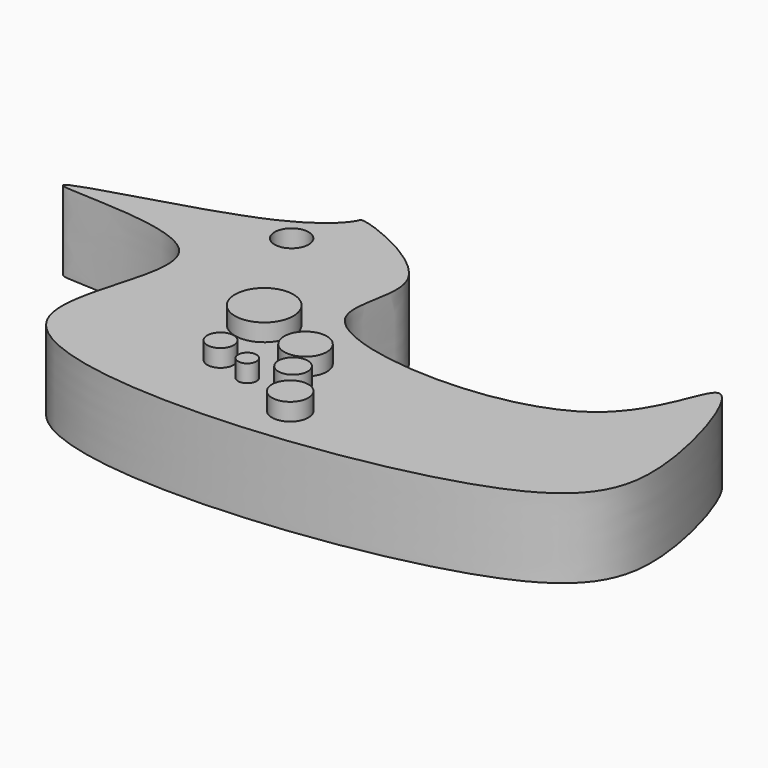
from build123d import *

# Parameters (mm, degrees)
F1_DEPTH = 12.7
F2_R     = 2.7244838704
F3_DEPTH = 48.514
F4_R     = 2.9188910476
F4_R_2   = 4.6822950742
F4_R_3   = 2.1248590254
F4_R_4   = 1.4733235968
F4_R_5   = 3.4173490768
F4_R_6   = 2.3573175243
F5_DEPTH = 15.494


with BuildPart() as f1:
    # F0 (on Top) → F1 (new body)
    with BuildSketch(Plane.XY):
        with BuildLine():
            add(Edge.make_bspline(
                [(-39.7003926337, 39.2942540348), (-34.145672882, 41.8783748231), (-31.4985130851, 45.1973298836), (-31.4432002745, 46.7979101876), (-9.9400945176, 38.5453807407), (-25.7625096088, 17.9639931528), (29.5871671122, 14.756538087), (31.7218660568, 47.0843775406), (42.785930507, 14.9815841283), (33.9775780461, -5.6098640227), (-65.4351356906, -14.4978425831), (-30.3164226952, 31.9545218817), (-84.1711071577, 27.4052709906), (-48.9010658659, 35.0139929183), (-39.7003926337, 39.2942540348)],
                knots=[0, 0, 0, 0, 0.0583291596, 0.0721188468, 0.147056572, 0.2142314663, 0.3290233929, 0.4030644082, 0.4849044621, 0.569798097, 0.7249384635, 0.816464142, 0.9033853081, 1, 1, 1, 1], degree=3))
        make_face()
    extrude(amount=F1_DEPTH)

    # F2 (on Top) → F3 (cut)
    with BuildSketch(Plane.XY):
        with Locations((-35.0297577679, 36.6543270648)):
            Circle(F2_R)
    extrude(amount=F3_DEPTH, mode=Mode.SUBTRACT)

    # F4 (on Top) → F5 (join)
    with BuildSketch(Plane.XY):
        with Locations((-5.9382421896, 0)):
            Circle(F4_R)
        with Locations((-23.0237115175, 16.147851944)):
            Circle(F4_R_2)
        with Locations((-21.356837824, 5.3131640889)):
            Circle(F4_R_3)
        with Locations((-15.7311335206, 3.6462892313)):
            Circle(F4_R_4)
        with Locations((-12.3973833397, 11.1472271383)):
            Circle(F4_R_5)
        with Locations((-9.8970709369, 5.5215233006)):
            Circle(F4_R_6)
    extrude(amount=F5_DEPTH)


solid = f1.part
